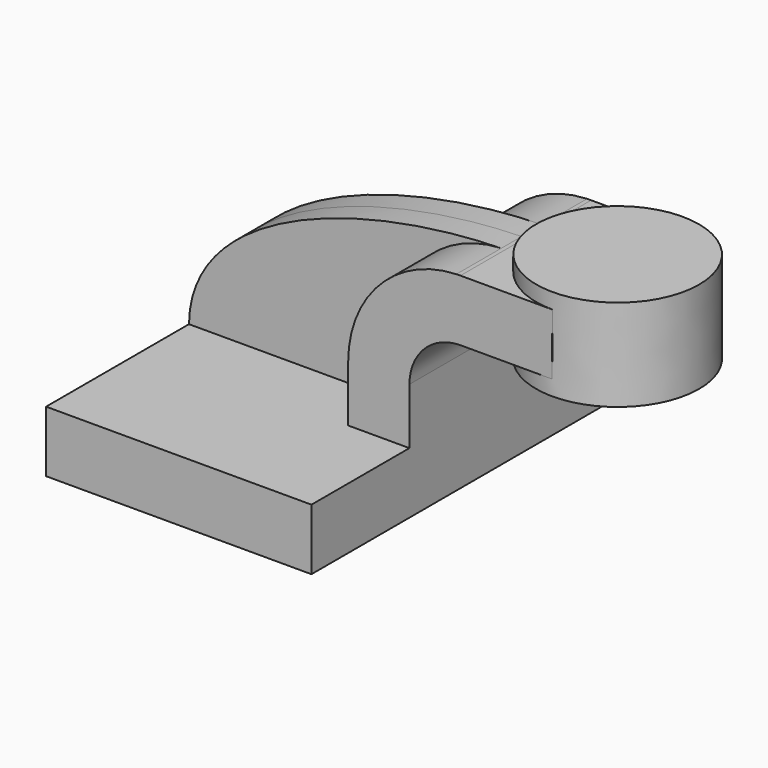
from build123d import *

# Parameters (mm, degrees)
F1_DEPTH = 63.5
F2_DEPTH = 25.4
F3_DEPTH = 7.9375


with BuildPart() as f1:
    # F0 (on Front) → F1 (new body, symmetric)
    with BuildSketch(Plane.XZ):
        Polygon((22.225, 9.525), (-41.275, 9.525), (-41.275, -9.525), (41.275, -9.525), (41.275, 9.525), align=None)
    extrude(amount=F1_DEPTH, both=True)

    # F0 (on Front) → F2 (join, symmetric)
    with BuildSketch(Plane.XZ):
        with BuildLine():
            Line((22.225, 27.0002), (22.225, 9.525))
            Line((22.225, 9.525), (41.275, 9.525))
            Line((41.275, 9.525), (41.275, 27.0002))
            ThreePointArc((41.275, 27.0002), (45.9246798487, 38.2255201513), (57.15, 42.8752))
            Line((57.15, 42.8752), (60.2788307428, 42.8752))
            Line((60.2788307428, 42.8752), (60.2788307428, 61.9252))
            Line((60.2788307428, 61.9252), (57.15, 61.9252))
            add(Edge.make_bspline(
                [(55.8781690604, 61.9020347807), (56.3029319207, 61.9112789405), (56.7268937511, 61.919000586), (57.15, 61.9252)],
                knots=[110.4402466435, 110.4402466435, 110.4402466435, 110.4402466435, 111.5045361635, 111.5045361635, 111.5045361635, 111.5045361635], degree=3))
            ThreePointArc((55.8781690604, 61.9020347807), (32.0086563549, 51.2420741998), (22.225, 27.0002))
        make_face()
        Polygon((85.7173256435, 61.9252), (60.2788307428, 61.9252), (60.2788307428, 42.8752), (85.6865461387, 42.8752), align=None)
    extrude(amount=F2_DEPTH, both=True)

    # F0 (on Front) → F3 (join, symmetric)
    with BuildSketch(Plane.XZ):
        with BuildLine():
            add(Edge.make_bspline(
                [(-41.275, 9.525), (-40.9017486409, 43.5890820487), (11.8009568178, 60.94277767), (55.8781690604, 61.9020347807)],
                knots=[0, 0, 0, 0, 110.4402466435, 110.4402466435, 110.4402466435, 110.4402466435], degree=3))
            Line((-41.275, 9.525), (22.225, 9.525))
            Line((22.225, 9.525), (22.225, 27.0002))
            ThreePointArc((22.225, 27.0002), (32.0086563549, 51.2420741998), (55.8781690604, 61.9020347807))
        make_face()
    extrude(amount=F3_DEPTH, both=True)

    # F0 (on Front) → F4 (revolve)
    with BuildSketch(Plane.XZ):
        Polygon((85.725, 66.675), (85.7173256435, 61.9252), (85.6865461387, 42.8752), (85.6788307428, 38.1), (111.0788307428, 38.1), (111.0788307428, 66.675), align=None)
    revolve(axis=Axis((85.7019153714, 0, 52.3875), (0.0016157199, 0, 0.9999986947)))


solid = f1.part
